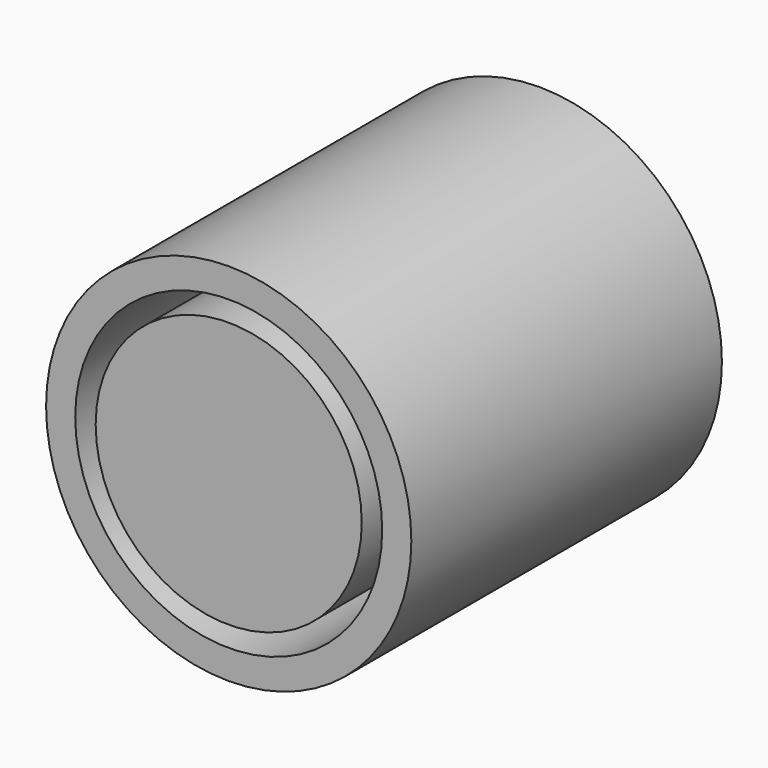
from build123d import *

# Parameters (mm, degrees)
F0_R     = 10.280997
F1_DEPTH = 30
F2_R     = 14.112493
F2_R_2   = 11.860886
F3_DEPTH = 30


with BuildPart() as f1:
    # F0 (on Front) → F1 (new body)
    with BuildSketch(Plane.XZ):
        Circle(F0_R)
    extrude(amount=F1_DEPTH)


with BuildPart() as f3:
    # F2 (on Front) → F3 (new body)
    with BuildSketch(Plane.XZ):
        Circle(F2_R)
        Circle(F2_R_2, mode=Mode.SUBTRACT)
    extrude(amount=F3_DEPTH)


solid = Compound([f1.part, f3.part])
